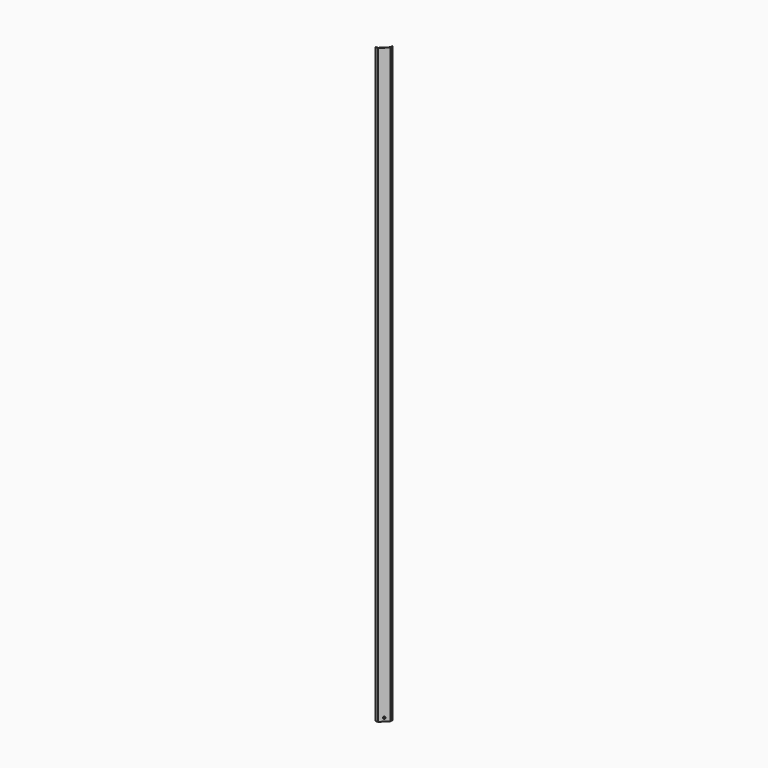
from build123d import *

# Parameters (mm, degrees)
F1_DEPTH = 28
F3_DEPTH = 2353
F5_DEPTH = 28
F6_R     = 2
F7_R     = 1
F8_R     = 4.25
F9_DEPTH = 25


with BuildPart() as f1:
    # F0 (on Top) → F1 (new body)
    with BuildSketch(Plane.XY):
        Polygon((-19.75, -17.750001), (-19.75, -19.75), (-9.25, -19.75), (19.75, 9.25), (19.75, 19.75), (17.750001, 19.75), (17.750001, 10.078427), (-10.078427, -17.750001), align=None)
    extrude(amount=F1_DEPTH)

    # F2 (on face) → F3 (join)
    with BuildSketch(Plane.XY.offset(28)):
        Polygon((-19.75, -19.75), (-9.25, -19.75), (19.75, 9.25), (19.75, 19.75), (11.25, 19.75), (11.25, 24.25), (9.25, 26.25), (9.25, 23.421573), (9.25, 19.75), (9.25, 17.750001), (17.750001, 17.750001), (17.750001, 10.078427), (16.585787, 8.914213), (-8.914213, -16.585787), (-10.078427, -17.750001), (-17.750001, -17.750001), (-17.750001, -9.25), (-19.75, -9.25), (-23.421573, -9.25), (-26.25, -9.25), (-24.25, -11.25), (-19.75, -11.25), align=None)
    extrude(amount=F3_DEPTH)

    # F4 (on face) → F5 (join)
    with BuildSketch(Plane.XY.offset(2381)):
        Polygon((19.75, 9.25), (19.75, 19.75), (17.750001, 19.75), (17.750001, 10.078427), (-10.078427, -17.750001), (-19.75, -17.750001), (-19.75, -19.75), (-9.25, -19.75), align=None)
    extrude(amount=F5_DEPTH)

    # F6
    f6_edges = [f1.edges().sort_by_distance(p)[0] for p in [
        (19.75, 9.25, 1204.5),
        (-9.25, -19.75, 1204.5),
    ]]
    fillet(f6_edges, radius=F6_R)

    # F7
    f7_edges = [f1.edges().sort_by_distance(p)[0] for p in [
        (-19.75, -19.75, 1204.5),
        (19.75, 19.75, 1204.5),
    ]]
    fillet(f7_edges, radius=F7_R)

    # F8 (on face) → F9 (cut)
    with BuildSketch(Plane(origin=(3.835787, -3.835787, 0), x_dir=(-0.707107, -0.707107, 0), z_dir=(-0.707107, 0.707107, 0))):
        with Locations((0, 14)):
            Circle(F8_R)
    extrude(amount=-F9_DEPTH, mode=Mode.SUBTRACT)


solid = f1.part
